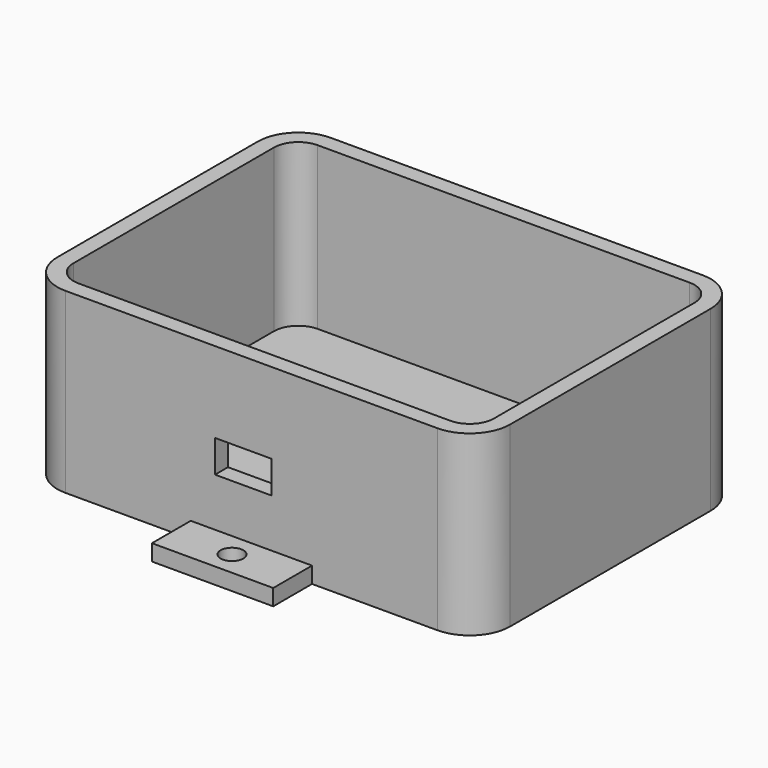
from build123d import *

# Parameters (mm, degrees)
PAD_DEPTH       = 20
THICKNESS_T     = 2
SKETCH001_W     = 15
SKETCH001_H     = 2
PAD001_DEPTH    = 6
SKETCH002_R     = 1.4
POCKET_DEPTH    = 2.001
SKETCH003_W     = 15
SKETCH003_H     = 2
PAD002_DEPTH    = 6
SKETCH004_R     = 1.4
POCKET001_DEPTH = 22.001
SKETCH005_R     = 1.6
POCKET002_DEPTH = 22.001
SKETCH006_W     = 7
SKETCH006_H     = 4
POCKET003_DEPTH = 2


with BuildPart() as part:
    # Sketch → Pad (new body)
    with BuildSketch(Plane.XY):
        with BuildLine():
            Line((0, 37), (46, 37))
            ThreePointArc((49, 34), (48.1213203436, 36.1213203436), (46, 37))
            Line((49, 34), (49, 3))
            ThreePointArc((46, 0), (48.1213203436, 0.8786796564), (49, 3))
            Line((46, 0), (0, 0))
            ThreePointArc((-3, 3), (-2.1213203436, 0.8786796564), (0, 0))
            Line((-3, 3), (-3, 34))
            ThreePointArc((0, 37), (-2.1213203436, 36.1213203436), (-3, 34))
        make_face()
    extrude(amount=PAD_DEPTH)

    # Thickness
    thickness_openings = [part.faces().sort_by_distance(p)[0] for p in [
        (23, 18.5, 20),
    ]]
    offset(amount=THICKNESS_T, openings=thickness_openings, kind=Kind.INTERSECTION)

    # Sketch001 → Pad001 (new body)
    with BuildSketch(Plane(origin=(0, 39, 0), x_dir=(-1, 0, 0), z_dir=(0, 1, 0))):
        with Locations((-23, -1)):
            Rectangle(SKETCH001_W, SKETCH001_H)
    extrude(amount=PAD001_DEPTH)

    # Sketch002 → Pocket (cut, through all)
    with BuildSketch(Plane.XY):
        with Locations((23, 42)):
            Circle(SKETCH002_R)
    extrude(amount=-POCKET_DEPTH, mode=Mode.SUBTRACT)

    # Sketch003 → Pad002 (new body)
    with BuildSketch(Plane.XZ.offset(2)):
        with Locations((23, -1)):
            Rectangle(SKETCH003_W, SKETCH003_H)
    extrude(amount=PAD002_DEPTH)

    # Sketch004 → Pocket001 (cut, through all)
    with BuildSketch(Plane(origin=(0, 0, -2), x_dir=(1, 0, 0), z_dir=(0, 0, -1))):
        with Locations((23, 5)):
            Circle(SKETCH004_R)
    extrude(amount=-POCKET001_DEPTH, mode=Mode.SUBTRACT)

    # Sketch005 → Pocket002 (cut, through all)
    with BuildSketch(Plane(origin=(0, 0, -2), x_dir=(1, 0, 0), z_dir=(0, 0, -1))):
        with Locations((2, -17.739397)):
            Circle(SKETCH005_R)
        with Locations((44, -17.314964)):
            Circle(SKETCH005_R)
    extrude(amount=-POCKET002_DEPTH, mode=Mode.SUBTRACT)

    # Sketch006 → Pocket003 (cut)
    with BuildSketch(Plane.XZ.offset(2)):
        with Locations((22, 8)):
            Rectangle(SKETCH006_W, SKETCH006_H)
    extrude(amount=-POCKET003_DEPTH, mode=Mode.SUBTRACT)


solid = part.part
